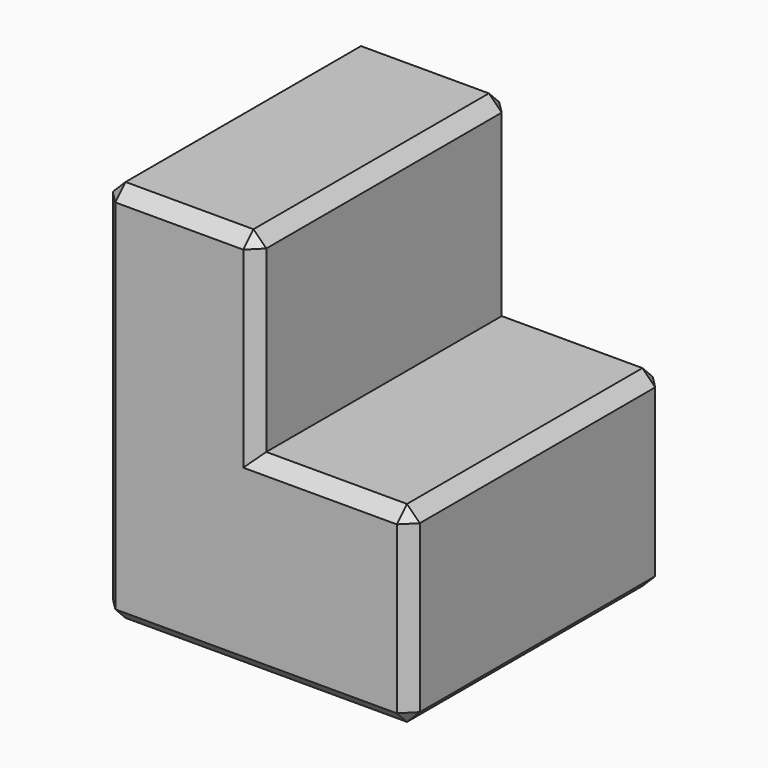
from build123d import *

# Parameters (mm, degrees)
F1_DEPTH = 25
F2_SIZE  = 1


with BuildPart() as f1:
    # F0 (on Front) → F1 (new body)
    with BuildSketch(Plane.XZ):
        Polygon((0, 15), (-12, 15), (-12, 0), (-12, -15), (12, -15), (12, 0), (0, 0), align=None)
    extrude(amount=F1_DEPTH)

    # F2
    f2_edges = [f1.edges().sort_by_distance(p)[0] for p in [
        (-6, -25, 15),
        (-12, -25, 0),
        (0, -25, -15),
        (12, -25, -7.5),
        (6, -25, 0),
        (0, -25, 7.5),
        (0, -12.5, 15),
        (-12, -12.5, 15),
        (-6, 0, 15),
        (-12, 0, 0),
        (0, 0, -15),
        (12, 0, -7.5),
        (6, 0, 0),
        (0, 0, 7.5),
        (-12, -12.5, -15),
        (12, -12.5, -15),
        (12, -12.5, 0),
    ]]
    chamfer(f2_edges, length=F2_SIZE)


solid = f1.part
